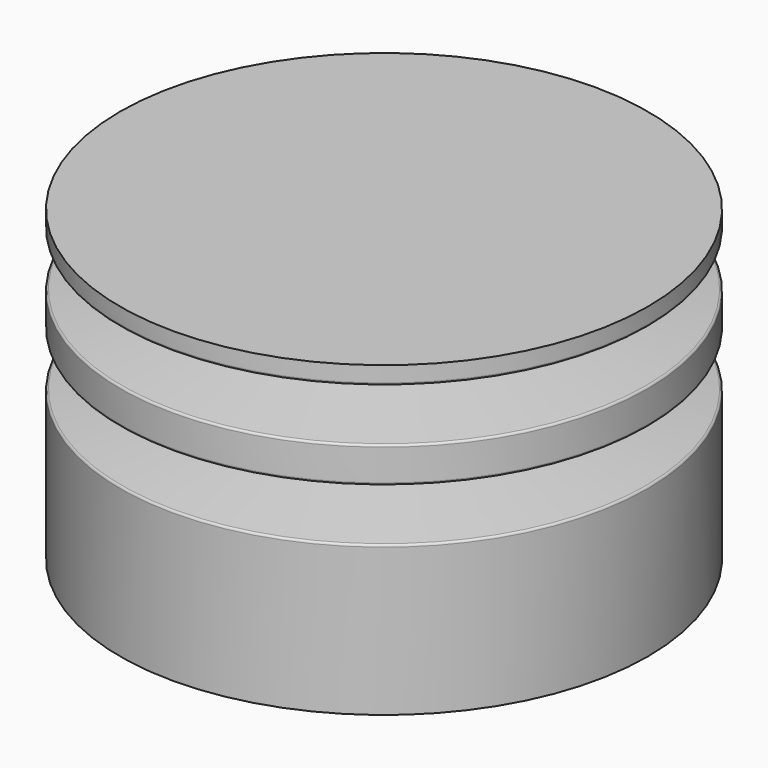
from build123d import *

# Parameters (mm, degrees)
F4_DEPTH = 3


with BuildPart() as f1:
    # F0 (on Front) → F1 (revolve)
    with BuildSketch(Plane.XZ):
        with BuildLine():
            Line((0, 4), (0, 3))
            Line((0, 3), (6, 3))
            Line((6, 3), (6, 3.356940629))
            ThreePointArc((6, 3.356940629), (5.9878870105, 3.3895684458), (5.9574170226, 3.4063874466))
            Line((5.9574170226, 3.4063874466), (3.3333333333, 3.8))
            Line((3.3333333333, 3.8), (2, 4))
            Line((2, 4), (0, 4))
        make_face()
        Polygon((3.3333333333, 4), (2, 4), (3.3333333333, 3.8), align=None)
    revolve(axis=Axis((0, 0, 3.5), (0, 0, 1)))

    # F2: F1 across face


with BuildPart() as f1_1:
    add(f1.part)
    add(f1.part.mirror(Plane.XY.offset(4)))

    # F3: F1 across face


with BuildPart() as f1_2:
    add(f1_1.part)
    add(f1_1.part.mirror(Plane.XY.offset(5)))

    # F4 (add, through all): a face of the model
    f4_faces = [f1_2.faces().sort_by_distance(p)[0] for p in [
        (0, 0, 3),
    ]]
    extrude(f4_faces, amount=F4_DEPTH)


solid = f1_2.part
